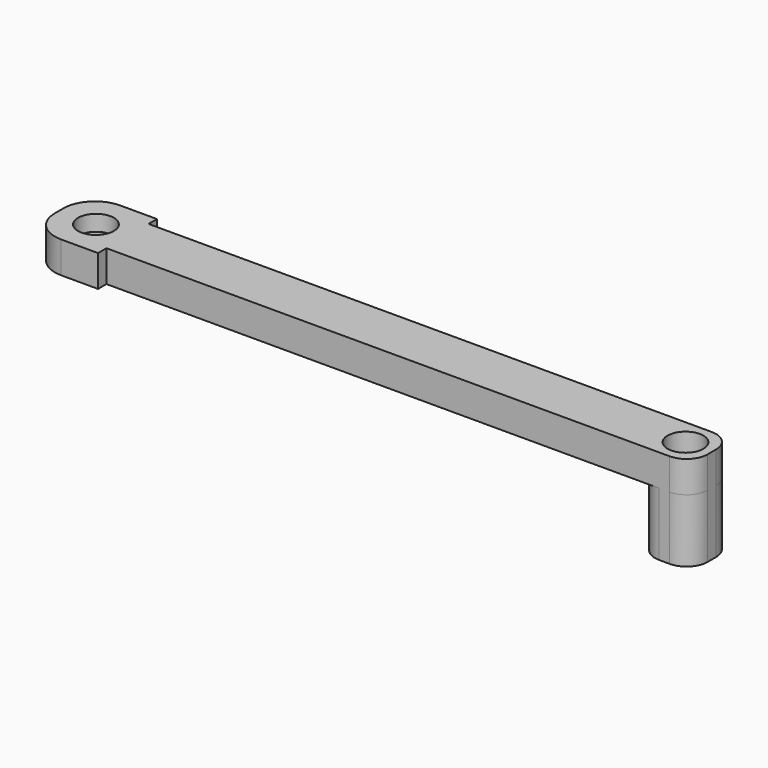
from build123d import *

# Parameters (mm, degrees)
F0_R     = 1.7
F1_DEPTH = 3
F2_R     = 2
F3_R     = 1.7
F4_DEPTH = 6
F5_R     = 2
F6_R     = 1.7
F7_DEPTH = 3
F8_R     = 2.9
F9_DEPTH = 1.5


with BuildPart() as f1:
    # F0 (on Top) → F1 (new body)
    with BuildSketch(Plane.XY):
        Polygon((-2.5, 2.5), (-2.5, 0), (-2.5, -2.5), (58.5, -2.5), (58.5, 0), (58.5, 2.5), align=None)
        Circle(F0_R, mode=Mode.SUBTRACT)
        with Locations((56, 0)):
            Circle(F0_R, mode=Mode.SUBTRACT)
    extrude(amount=F1_DEPTH)

    # F2
    f2_edges = [f1.edges().sort_by_distance(p)[0] for p in [
        (-2.5, 2.5, 1.5),
        (-2.5, -2.5, 1.5),
        (58.5, 2.5, 1.5),
        (58.5, -2.5, 1.5),
    ]]
    fillet(f2_edges, radius=F2_R)

    # F3 (on face) → F4 (join)
    with BuildSketch(Plane(origin=(0, 0, 0), x_dir=(1, 0, 0), z_dir=(0, 0, -1))):
        with BuildLine():
            Line((53.5, -2.5), (56.5, -2.5))
            ThreePointArc((56.5, -2.5), (57.9142135624, -1.9142135624), (58.5, -0.5))
            Line((58.5, -0.5), (58.5, 0.5))
            ThreePointArc((58.5, 0.5), (57.9142135624, 1.9142135624), (56.5, 2.5))
            Line((56.5, 2.5), (53.5, 2.5))
            Line((53.5, 2.5), (53.5, -2.5))
        make_face()
        with Locations((56, 0)):
            Circle(F3_R, mode=Mode.SUBTRACT)
    extrude(amount=F4_DEPTH)

    # F5
    f5_edges = [f1.edges().sort_by_distance(p)[0] for p in [
        (53.5, 2.5, -3),
        (53.5, -2.5, -3),
    ]]
    fillet(f5_edges, radius=F5_R)

    # F6 (on face) → F7 (join, through all)
    with BuildSketch(Plane.XY.offset(3)):
        with BuildLine():
            ThreePointArc((-0.5, 3.5), (-2.6213203436, 2.6213203436), (-3.5, 0.5))
            Line((-3.5, 0.5), (-3.5, -0.5))
            ThreePointArc((-3.5, -0.5), (-2.6213203436, -2.6213203436), (-0.5, -3.5))
            Line((-0.5, -3.5), (3, -3.5))
            Line((3, -3.5), (3, -2.5))
            Line((3, -2.5), (3, 2.5))
            Line((3, 2.5), (3, 3.5))
            Line((3, 3.5), (-0.5, 3.5))
        make_face()
        Circle(F6_R, mode=Mode.SUBTRACT)
    extrude(amount=-F7_DEPTH)

    # F8 (on face) → F9 (cut)
    with BuildSketch(Plane(origin=(0, 0, 0), x_dir=(1, 0, 0), z_dir=(0, 0, -1))):
        Circle(F8_R)
    extrude(amount=-F9_DEPTH, mode=Mode.SUBTRACT)


solid = f1.part
